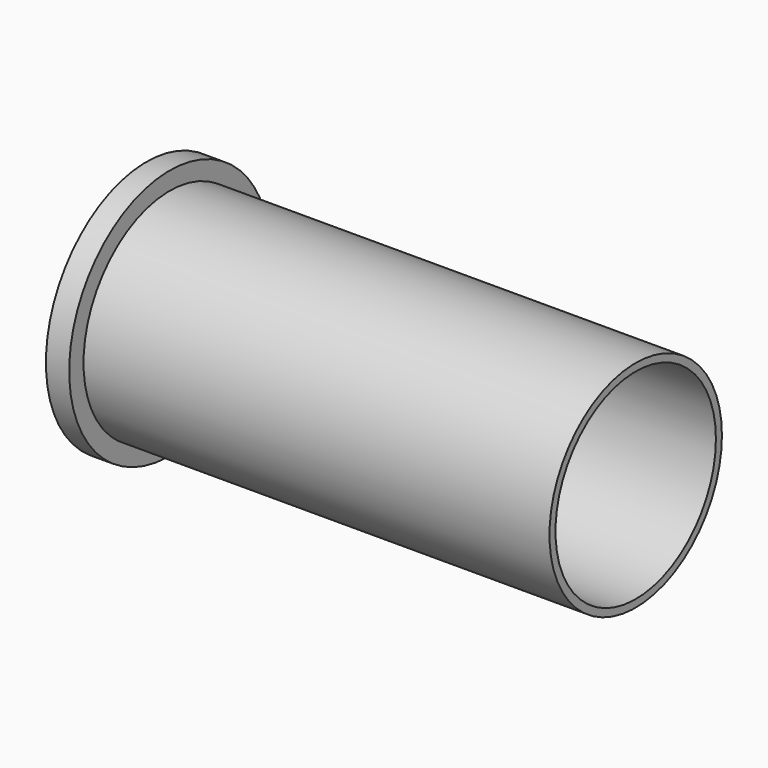
from build123d import *

# Parameters (mm, degrees)
F0_R     = 53.945698
F1_DEPTH = 10
F2_R     = 46.260879
F2_R_2   = 43.034347
F3_DEPTH = 200


with BuildPart() as f1:
    # F0 (on Right) → F1 (new body)
    with BuildSketch(Plane.YZ):
        Circle(F0_R)
    extrude(amount=F1_DEPTH)

    # F2 (on face) → F3 (join)
    with BuildSketch(Plane.YZ.offset(10)):
        Circle(F2_R)
        Circle(F2_R_2, mode=Mode.SUBTRACT)
    extrude(amount=F3_DEPTH)


solid = f1.part
